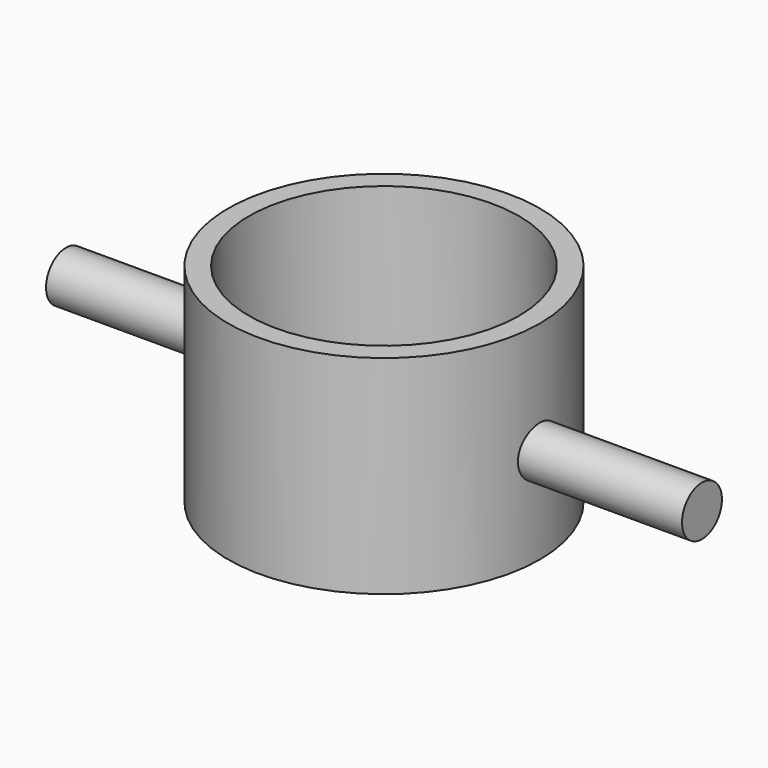
from build123d import *

# Parameters (mm, degrees)
F0_R     = 9.525
F1_DEPTH = 12.7
F2_R     = 8.255
F3_DEPTH = 10.16
F4_R     = 5.55625
F5_DEPTH = 25.4
F7_R     = 1.524
F8_DEPTH = 10.16


with BuildPart() as f1:
    # F0 (on Top) → F1 (new body)
    with BuildSketch(Plane.XY):
        Circle(F0_R)
    extrude(amount=F1_DEPTH)

    # F2 (on face) → F3 (cut)
    with BuildSketch(Plane.XY.offset(12.7)):
        Circle(F2_R)
    extrude(amount=-F3_DEPTH, mode=Mode.SUBTRACT)

    # F4 (on face) → F5 (cut)
    with BuildSketch(Plane.XY.offset(2.54)):
        Circle(F4_R)
    extrude(amount=-F5_DEPTH, mode=Mode.SUBTRACT)

    # F7 (on offset) → F8 (join)
    with BuildSketch(Plane.YZ.offset(9.271)):
        with Locations((0, 5.842)):
            Circle(F7_R)
    extrude(amount=F8_DEPTH)

    # F9: F1 across plane


with BuildPart() as f1_1:
    add(f1.part)
    add(f1.part.mirror(Plane.YZ))


solid = f1_1.part
